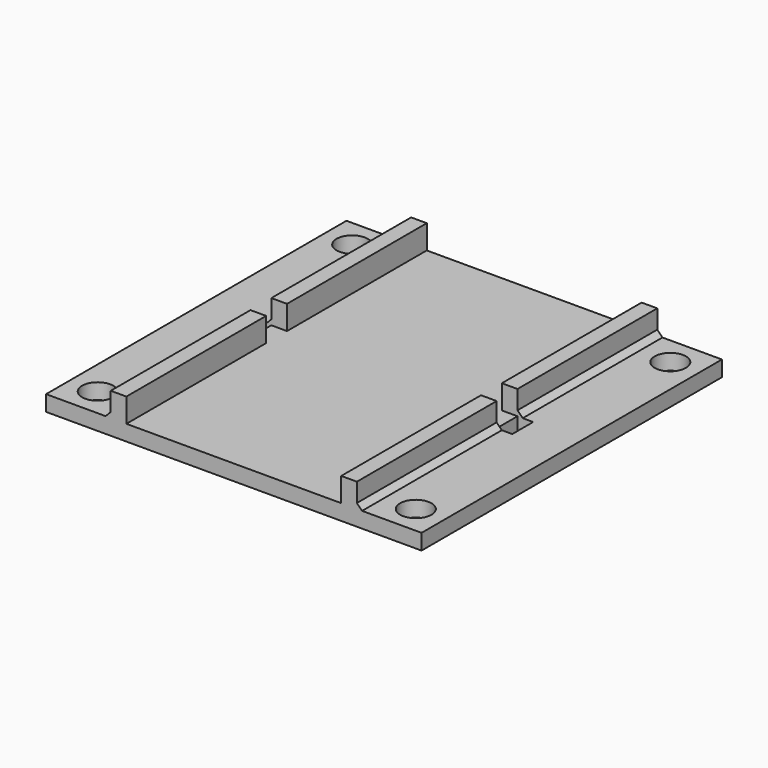
from build123d import *

# Parameters (mm, degrees)
F0_W     = 6.2
F0_H     = 36
F0_R     = 1.5
F0_W_2   = 1.5
F0_W_3   = 20.6
F3_DEPTH = 1.5
F4_DEPTH = 3.8
F2_W     = 1.5
F2_H     = 2.5
F5_DEPTH = 25
F6_SIZE  = 0.5
F7_W     = 1.5
F7_H     = 2.5
F8_DEPTH = 25


with BuildPart() as f3:
    # F0 (on Top) → F3 (new body)
    with BuildSketch(Plane.XY):
        with Locations((14.9, 0)):
            Rectangle(F0_W, F0_H)
        with Locations((15.25, -15.25)):
            Circle(F0_R, mode=Mode.SUBTRACT)
        with Locations((15.25, 15.25)):
            Circle(F0_R, mode=Mode.SUBTRACT)
        with Locations((11.05, 0)):
            Rectangle(F0_W_2, F0_H)
        Rectangle(F0_W_3, F0_H)
        with Locations((-11.05, 0)):
            Rectangle(F0_W_2, F0_H)
        with Locations((-14.9, 0)):
            Rectangle(F0_W, F0_H)
        with Locations((-15.25, -15.25)):
            Circle(F0_R, mode=Mode.SUBTRACT)
        with Locations((-15.25, 15.25)):
            Circle(F0_R, mode=Mode.SUBTRACT)
    extrude(amount=F3_DEPTH)

    # F0 (on Top) → F4 (join)
    with BuildSketch(Plane.XY):
        with Locations((-11.05, 0)):
            Rectangle(F0_W_2, F0_H)
        with Locations((11.05, 0)):
            Rectangle(F0_W_2, F0_H)
    extrude(amount=F4_DEPTH)

    # F2 (on face) → F5 (cut)
    with BuildSketch(Plane.XY):
        with Locations((-12.55, 0)):
            Rectangle(F2_W, F2_H)
        with Locations((12.55, 0)):
            Rectangle(F2_W, F2_H)
    extrude(amount=F5_DEPTH, mode=Mode.SUBTRACT)

    # F6
    f6_edges = [f3.edges().sort_by_distance(p)[0] for p in [
        (-11.8, 9.625, 1.5),
        (-11.8, -9.625, 1.5),
        (11.8, -9.625, 1.5),
        (11.8, 9.625, 1.5),
    ]]
    chamfer(f6_edges, length=F6_SIZE)

    # F7 (on face) → F8 (cut)
    with BuildSketch(Plane.XY.offset(1.5)):
        with Locations((-11.05, 0)):
            Rectangle(F7_W, F7_H)
        with Locations((11.05, 0)):
            Rectangle(F7_W, F7_H)
    extrude(amount=F8_DEPTH, mode=Mode.SUBTRACT)


solid = f3.part
